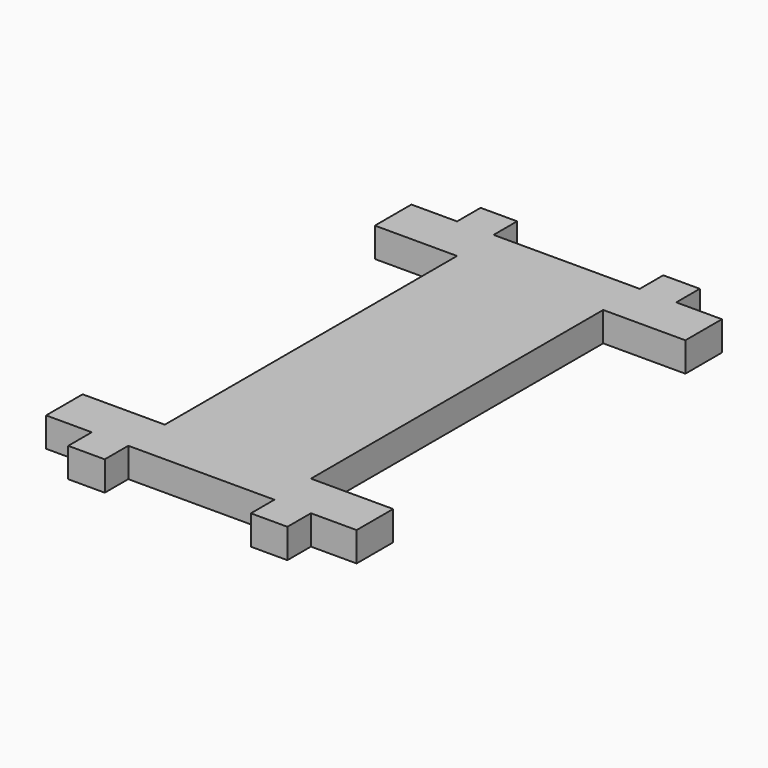
from build123d import *

# Parameters (mm, degrees)
F0_W     = 5.08
F0_H     = 4.0894
F0_W_2   = 20.32
F0_H_2   = 50.8
F1_DEPTH = 4.0894


with BuildPart() as f1:
    # F0 (on Top) → F1 (new body)
    with BuildSketch(Plane.XY):
        Polygon((21.59, -2.0447), (15.24, -2.0447), (10.16, -2.0447), (-10.16, -2.0447), (-15.24, -2.0447), (-21.59, -2.0447), (-21.59, -8.3947), (-10.16, -8.3947), (10.16, -8.3947), (21.59, -8.3947), align=None)
        with Locations((12.7, 0)):
            Rectangle(F0_W, F0_H)
        with Locations((-12.7, 0)):
            Rectangle(F0_W, F0_H)
        with Locations((0, -33.7947)):
            Rectangle(F0_W_2, F0_H_2)
        Polygon((21.59, -59.1947), (10.16, -59.1947), (-10.16, -59.1947), (-21.59, -59.1947), (-21.59, -65.5447), (-15.24, -65.5447), (-10.16, -65.5447), (10.16, -65.5447), (15.24, -65.5447), (21.59, -65.5447), align=None)
        with Locations((12.7, -67.5894)):
            Rectangle(F0_W, F0_H)
        with Locations((-12.7, -67.5894)):
            Rectangle(F0_W, F0_H)
    extrude(amount=F1_DEPTH)


solid = f1.part
